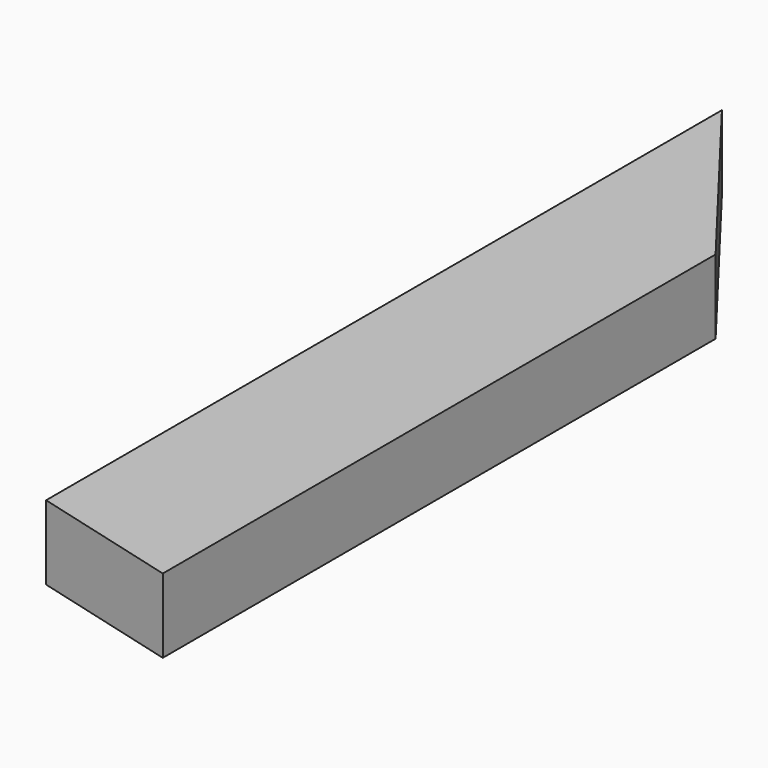
from build123d import *

# Parameters (mm, degrees)
F0_W     = 38.1
F0_H     = 19.05
F1_DEPTH = 508
F3_DEPTH = 19.051


with BuildPart() as f1:
    # F0 (on Front) → F1 (new body)
    with BuildSketch(Plane.XZ):
        Rectangle(F0_W, F0_H)
    extrude(amount=F1_DEPTH)

    # F2 (on face) → F3 (cut, through all)
    with BuildSketch(Plane.XY.offset(9.525)):
        Polygon((19.05, 0), (-19.05, 0), (19.05, -49.652887), align=None)
        Polygon((19.05, -226.892836), (-19.05, -216.683972), (-19.05, -256.127995), (-19.05, -433.367944), (-19.05, -508), (19.05, -508), (19.05, -483.020831), (19.05, -266.336859), align=None)
    extrude(amount=-F3_DEPTH, mode=Mode.SUBTRACT)


solid = f1.part
